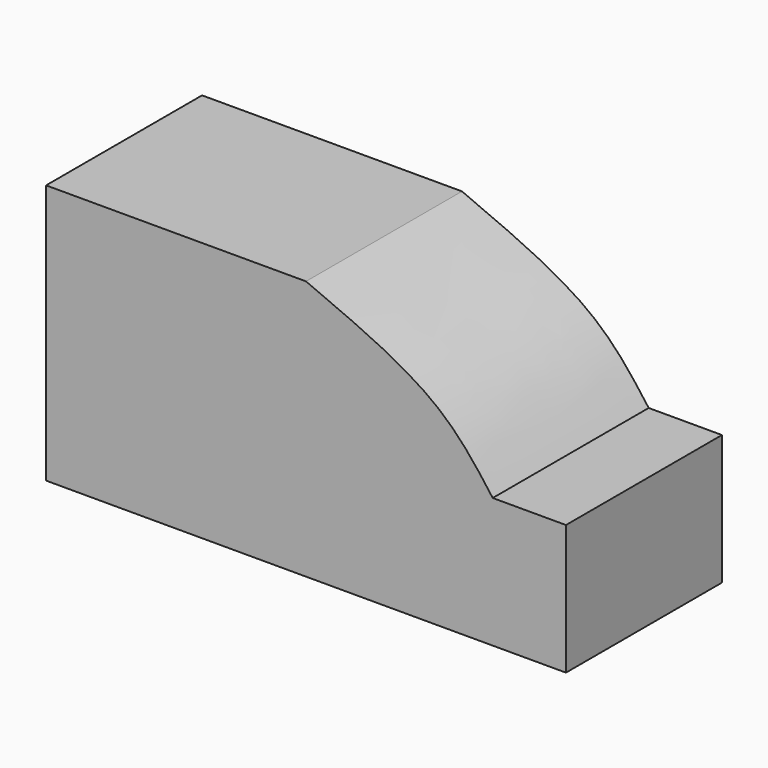
from build123d import *

# Parameters (mm, degrees)
F1_DEPTH = 3.81


with BuildPart() as f1:
    # F0 (on Front) → F1 (new body)
    with BuildSketch(Plane.XZ):
        with BuildLine():
            Line((-5.08, 0), (-5.08, -2.54))
            Line((-5.08, -2.54), (5.08, -2.54))
            Line((5.08, -2.54), (5.08, 0))
            Line((5.08, 0), (3.6488212645, 0))
            add(Edge.make_bspline(
                [(0, 2.54), (0.9258067301, 2.1494416055), (2.5770675473, 1.4528449754), (3.3216856434, 0.4434575874), (3.6488212645, 0)],
                knots=[0, 0, 0, 0, 0.5606665022, 1, 1, 1, 1], degree=3))
            Line((0, 2.54), (-5.08, 2.54))
            Line((-5.08, 2.54), (-5.08, 0))
        make_face()
        with BuildLine():
            Line((-5.08, 0), (-5.08, -2.54))
            Line((-5.08, -2.54), (5.08, -2.54))
            Line((5.08, -2.54), (5.08, 0))
            Line((5.08, 0), (3.6488212645, 0))
            add(Edge.make_bspline(
                [(0, 2.54), (0.9258067301, 2.1494416055), (2.5770675473, 1.4528449754), (3.3216856434, 0.4434575874), (3.6488212645, 0)],
                knots=[0, 0, 0, 0, 0.5606665022, 1, 1, 1, 1], degree=3))
            Line((0, 2.54), (-5.08, 2.54))
            Line((-5.08, 2.54), (-5.08, 0))
        make_face()
    extrude(amount=F1_DEPTH)


solid = f1.part
